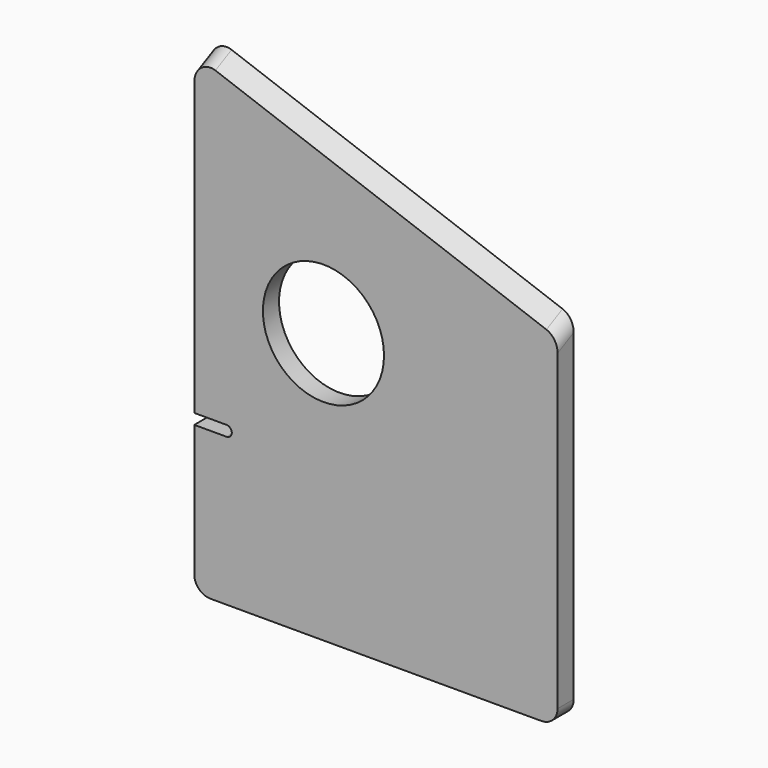
from build123d import *

# Parameters (mm, degrees)
F0_R     = 19.05
F1_DEPTH = 6.35
F4_DEPTH = 159.5317363987
F5_R     = 5.08


with BuildPart() as f1:
    # F0 (on Front) → F1 (new body)
    with BuildSketch(Plane.XZ):
        with BuildLine():
            Line((0, 46.5095229447), (0, 0))
            Line((0, 0), (114.3, 0))
            Line((114.3, 0), (114.3, 110.7982022234))
            Line((114.3, 110.7982022234), (0, 152.4))
            Line((0, 152.4), (0, 49.8115229447))
            Line((0, 49.8115229447), (10.16, 49.8115229447))
            ThreePointArc((10.16, 49.8115229447), (11.811, 48.1605229447), (10.16, 46.5095229447))
            Line((10.16, 46.5095229447), (0, 46.5095229447))
        make_face()
        with Locations((40.64, 85.09)):
            Circle(F0_R, mode=Mode.SUBTRACT)
    extrude(amount=F1_DEPTH)

    # F3 (on face) → F4 (cut, through all)
    with BuildSketch(Plane(origin=(-48.9804158581, 0, 17.8274134343), x_dir=(0, -1, 0), z_dir=(-0.9396926208, 0, 0.3420201433))):
        Polygon((6.35, 143.2091554078), (0, 143.2091554078), (6.35, 140.2481017785), align=None)
    extrude(amount=-F4_DEPTH, mode=Mode.SUBTRACT)

    # F5
    f5_edges = [f1.edges().sort_by_distance(p)[0] for p in [
        (0, -3.175, 150.824456),
        (114.3, -3.175, 109.222658),
        (114.3, -3.175, 0),
        (0, -3.175, 0),
    ]]
    fillet(f5_edges, radius=F5_R)


solid = f1.part
